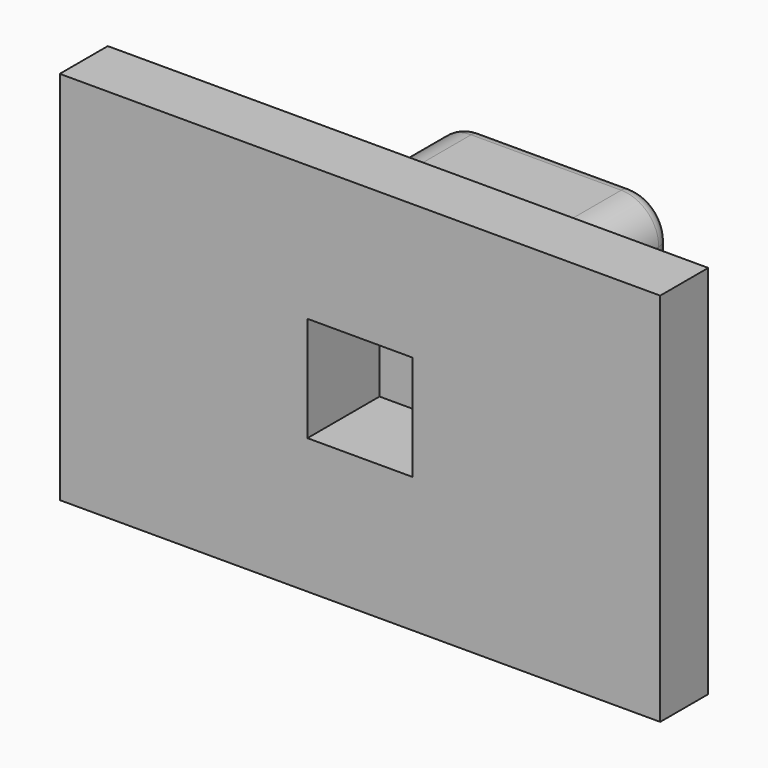
from build123d import *

# Parameters (mm, degrees)
F1_DEPTH = 3
F2_W     = 1.4
F2_H     = 1.4
F3_DEPTH = 1.2
F4_R     = 0.5
F5_R     = 0.2
F6_W     = 0.8
F6_H     = 1
F7_DEPTH = 8


with BuildPart() as f1:
    # F0 (on Top) → F1 (new body)
    with BuildSketch(Plane.XY):
        Polygon((0, 0.8), (0, 0), (8, 0), (8, 0.8), (5.5, 0.8), (5.5, 3.3), (2.5, 3.3), (2.5, 0.8), align=None)
    extrude(amount=F1_DEPTH)

    # F2 (on face) → F3 (cut)
    with BuildSketch(Plane.XZ):
        with Locations((4, 1.5)):
            Rectangle(F2_W, F2_H)
    extrude(amount=-F3_DEPTH, mode=Mode.SUBTRACT)

    # F4
    f4_edges = [f1.edges().sort_by_distance(p)[0] for p in [
        (5.5, 2.05, 3),
        (2.5, 2.05, 3),
        (2.5, 2.05, 0),
        (5.5, 2.05, 0),
    ]]
    fillet(f4_edges, radius=F4_R)

    # F5
    f5_edges = [f1.edges().sort_by_distance(p)[0] for p in [
        (4, 3.3, 3),
        (5.353553, 3.3, 2.853553),
        (5.5, 3.3, 1.5),
        (5.353553, 3.3, 0.146447),
        (4, 3.3, 0),
        (2.646447, 3.3, 0.146447),
        (2.5, 3.3, 1.5),
        (2.646447, 3.3, 2.853553),
    ]]
    fillet(f5_edges, radius=F5_R)

    # F6 (on face) → F7 (join, through all)
    with BuildSketch(Plane.YZ.offset(8)):
        with Locations((0.4, 3.5)):
            Rectangle(F6_W, F6_H)
        with Locations((0.4, -0.5)):
            Rectangle(F6_W, F6_H)
    extrude(amount=-F7_DEPTH)


solid = f1.part
